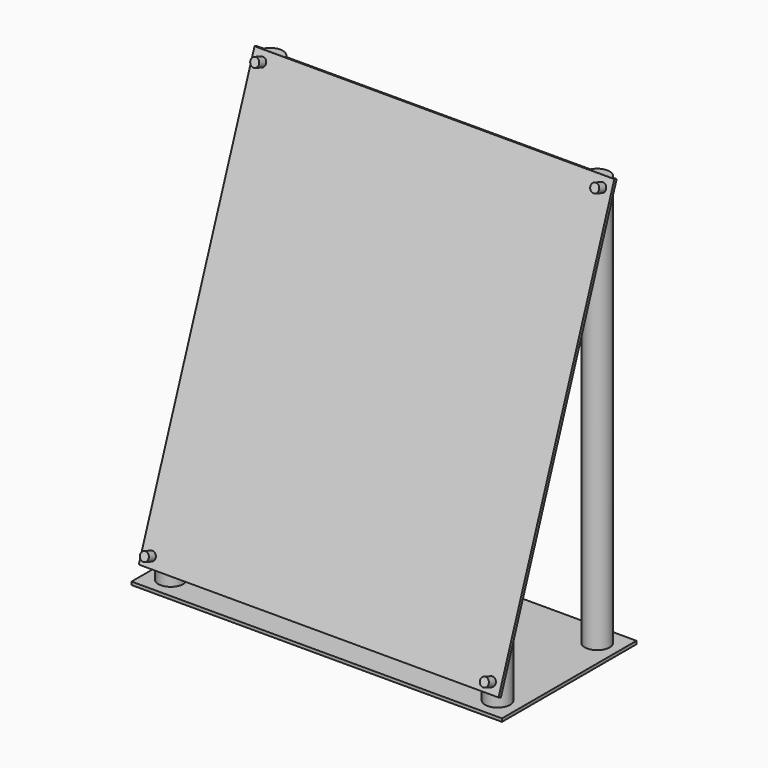
from build123d import *

# Parameters (mm, degrees)
SKETCH001_W  = 119
SKETCH001_H  = 54
PAD_DEPTH    = 1
SKETCH_R     = 4
PAD001_DEPTH = 132
SKETCH002_W  = 115.57
SKETCH002_H  = 135.89
POCKET_DEPTH = 50
PAD002_DEPTH = 1
SKETCH003_R  = 1.4
PAD003_DEPTH = 4


with BuildPart() as part:
    # Sketch001 → Pad (new body)
    with BuildSketch(Plane.XY):
        Rectangle(SKETCH001_W, SKETCH001_H)
    extrude(amount=-PAD_DEPTH)

    # Sketch → Pad001 (join)
    with BuildSketch(Plane.XY):
        with Locations((-52.5, 20)):
            Circle(SKETCH_R)
        with Locations((52.5, 20)):
            Circle(SKETCH_R)
        with Locations((52.5, -20)):
            Circle(SKETCH_R)
        with Locations((-52.5, -20)):
            Circle(SKETCH_R)
    extrude(amount=PAD001_DEPTH)

    # Sketch002 (on DatumPlane) → Pocket (cut)
    with BuildSketch(Plane(origin=(0, -27, 0), x_dir=(1, 0, 0), z_dir=(0, -0.939693, 0.34202))):
        with Locations((0, 72.945)):
            Rectangle(SKETCH002_W, SKETCH002_H)
    extrude(amount=POCKET_DEPTH, mode=Mode.SUBTRACT)

    # Sketch002 (on DatumPlane) → Pad002 (join)
    with BuildSketch(Plane(origin=(0, -27, 0), x_dir=(1, 0, 0), z_dir=(0, -0.939693, 0.34202))):
        with Locations((0, 72.945)):
            Rectangle(SKETCH002_W, SKETCH002_H)
    extrude(amount=PAD002_DEPTH)

    # Sketch003 (on DatumPlane) → Pad003 (join)
    with BuildSketch(Plane(origin=(0, -27, 0), x_dir=(1, 0, 0), z_dir=(0, -0.939693, 0.34202))):
        with Locations((-54.61, 137.715)):
            Circle(SKETCH003_R)
        with Locations((54.61, 137.715)):
            Circle(SKETCH003_R)
        with Locations((54.61, 8.175)):
            Circle(SKETCH003_R)
        with Locations((-54.61, 8.175)):
            Circle(SKETCH003_R)
    extrude(amount=PAD003_DEPTH)


solid = part.part
